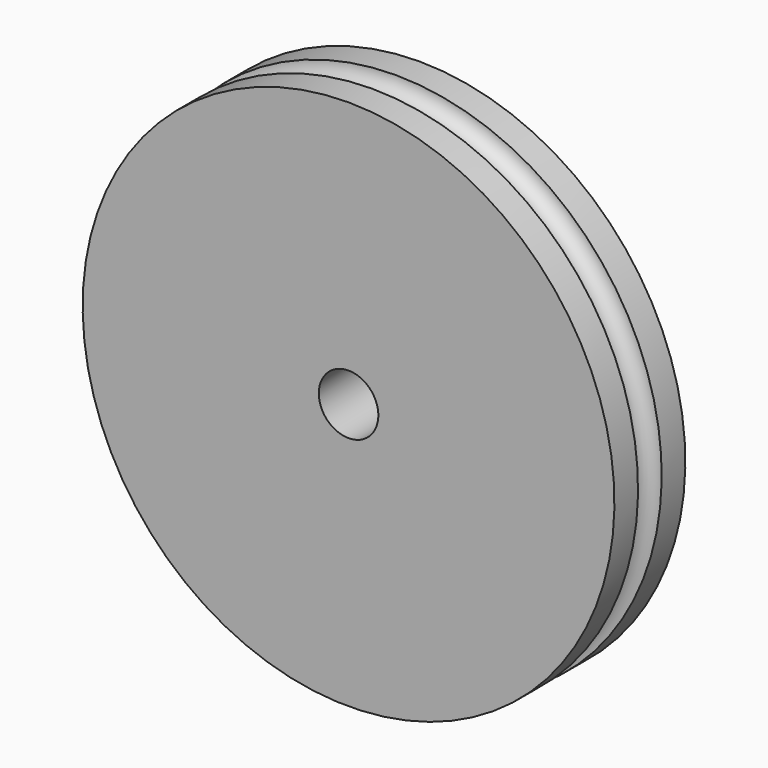
from build123d import *

# Parameters (mm, degrees)
F3_D = 6.4008


with BuildPart() as f1:
    # F0 (on Right) → F1 (revolve)
    with BuildSketch(Plane.YZ):
        with BuildLine():
            Line((-4.7625, 28.575), (-4.7625, 0))
            Line((-4.7625, 0), (0, 0))
            Line((0, 0), (4.7625, 0))
            Line((4.7625, 0), (4.7625, 28.575))
            Line((4.7625, 28.575), (1.5875, 28.575))
            ThreePointArc((1.5875, 28.575), (0, 26.9875), (-1.5875, 28.575))
            Line((-1.5875, 28.575), (-4.7625, 28.575))
        make_face()
    revolve(axis=Axis((0, 2.38125, 0), (0, 1, 0)))

    # F3 (through all)
    with Locations(Plane.XZ.offset(4.7625)):
        with Locations((0, 0)):
            Hole(F3_D / 2)


solid = f1.part
